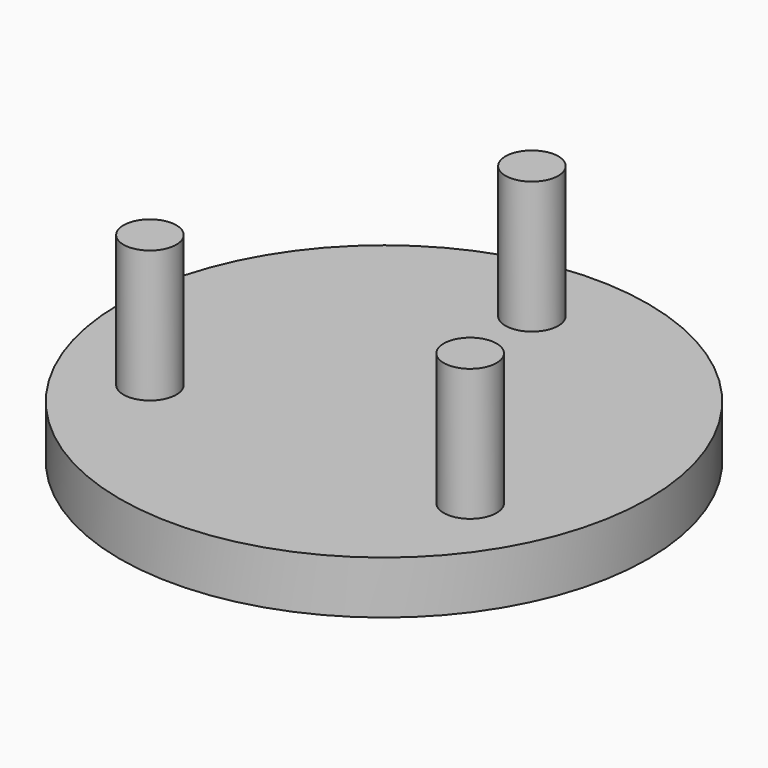
from build123d import *

# Parameters (mm, degrees)
F0_R     = 50
F1_DEPTH = 5
F2_R     = 5
F3_DEPTH = 25


with BuildPart() as f1:
    # F0 (on Top) → F1 (new body, symmetric)
    with BuildSketch(Plane.XY):
        Circle(F0_R)
    extrude(amount=F1_DEPTH, both=True)

    # F2 (on face) → F3 (join)
    with BuildSketch(Plane.XY.offset(5)):
        with Locations((0, 35)):
            Circle(F2_R)
        with Locations((30.310889, -17.5)):
            Circle(F2_R)
        with Locations((-30.310889, -17.5)):
            Circle(F2_R)
    extrude(amount=F3_DEPTH)


solid = f1.part
